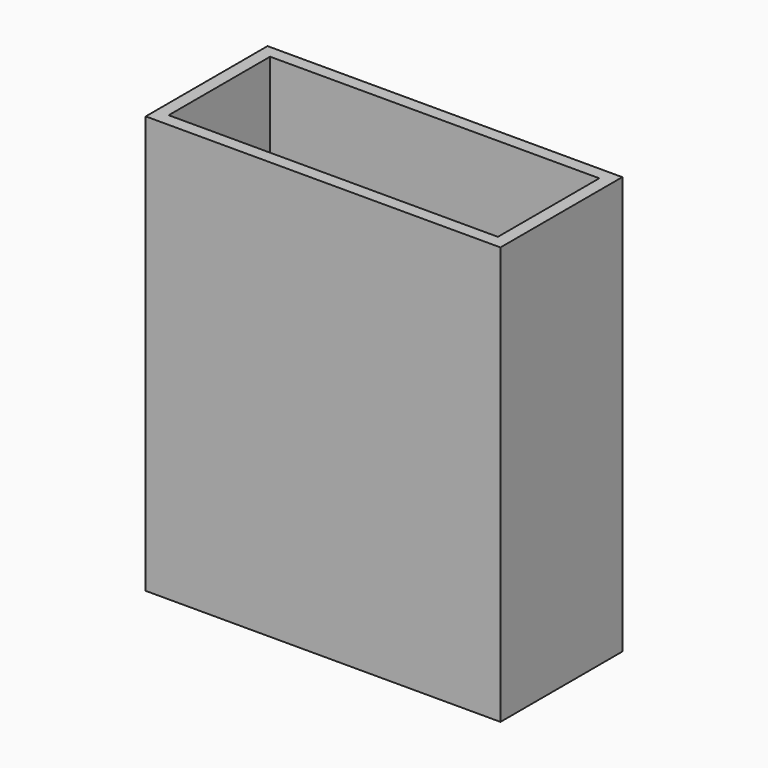
from build123d import *

# Parameters (mm, degrees)
BOX004_W     = 41.3004
BOX004_H     = 15.9004
BOX004_DEPTH = 50.8
BOX003_W     = 44.5008
BOX003_H     = 19.1008
BOX003_DEPTH = 52.4002


with BuildPart() as cube004:
    # Box004 → Box004 (new body)
    with BuildSketch(Plane(origin=(-15.8242, -7.874, -1.6002), x_dir=(1, 0, 0), z_dir=(0, 0, 1))):
        with Locations((20.6502, 7.9502)):
            Rectangle(BOX004_W, BOX004_H)
    extrude(amount=BOX004_DEPTH)


with BuildPart() as cut001:
    # Box003 → Box003 (new body)
    with BuildSketch(Plane(origin=(-17.4244, -9.4742, -3.2004), x_dir=(1, 0, 0), z_dir=(0, 0, 1))):
        with Locations((22.2504, 9.5504)):
            Rectangle(BOX003_W, BOX003_H)
    extrude(amount=BOX003_DEPTH)

    # Cut001: cut Cube004
    add(cube004.part, mode=Mode.SUBTRACT)


solid = cut001.part
